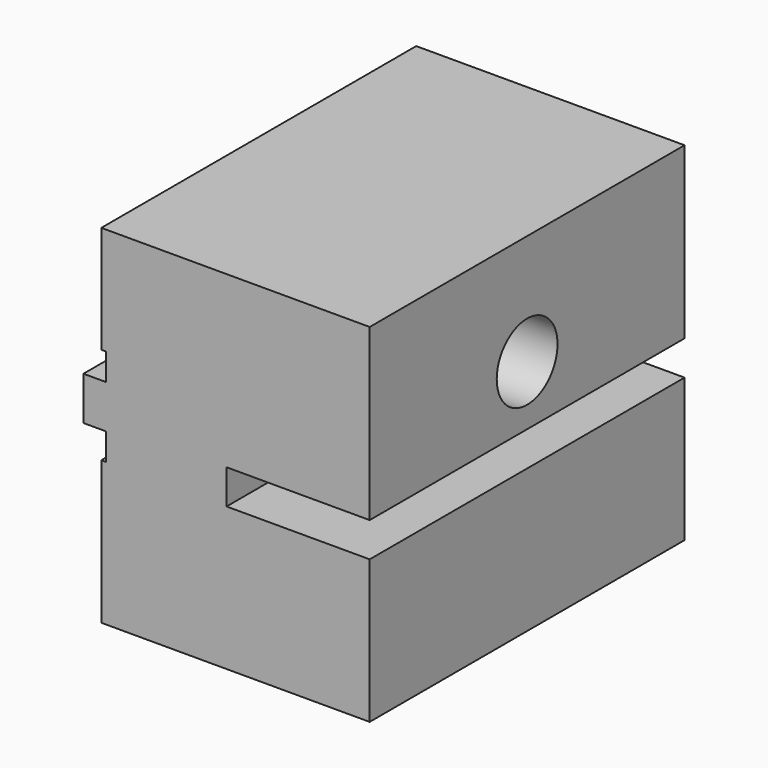
from build123d import *

# Parameters (mm, degrees)
F1_DEPTH = 69.85
F3_D     = 13.4874


with BuildPart() as f1:
    # F0 (on Front) → F1 (new body)
    with BuildSketch(Plane.XZ):
        Polygon((-47.625, -16.685515), (-47.625, -42.085515), (0, -42.085515), (0, -16.685515), (-25.4, -16.685515), (-25.4, -10.556428), (0, -10.556428), (0, 19.618772), (-47.625, 19.618772), (-47.625, 0.568772), (-46.8376, 0.568772), (-46.8376, -4.206428), (-50.8, -4.206428), (-50.8, -11.910315), (-46.8376, -11.910315), (-46.8376, -16.685515), align=None)
    extrude(amount=F1_DEPTH)

    # F3 (through all)
    with Locations(Plane.YZ):
        with Locations((-34.925, 0)):
            Hole(F3_D / 2)


solid = f1.part
